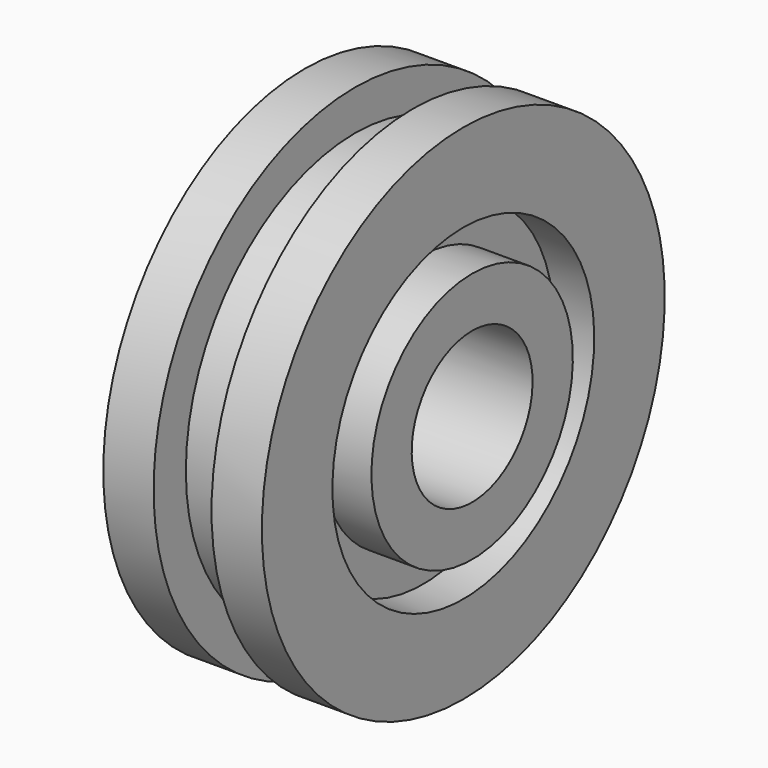
from build123d import *


with BuildPart() as f1:
    # F0 (on Front) → F1 (revolve)
    with BuildSketch(Plane.XZ):
        Polygon((-1.15, 8.4), (-1.15, 10), (-3.15, 10), (-3.15, 6.5), (-1.55, 6.5), (-1.55, 5), (-3.5, 5), (-3.5, 3), (0, 3), (3.5, 3), (3.5, 5), (1.55, 5), (1.55, 6.5), (3.15, 6.5), (3.15, 10), (1.15, 10), (1.15, 8.4), (0, 8.4), align=None)
    revolve(axis=Axis((0.65245, 0, 0), (1, 0, 0)))


solid = f1.part
